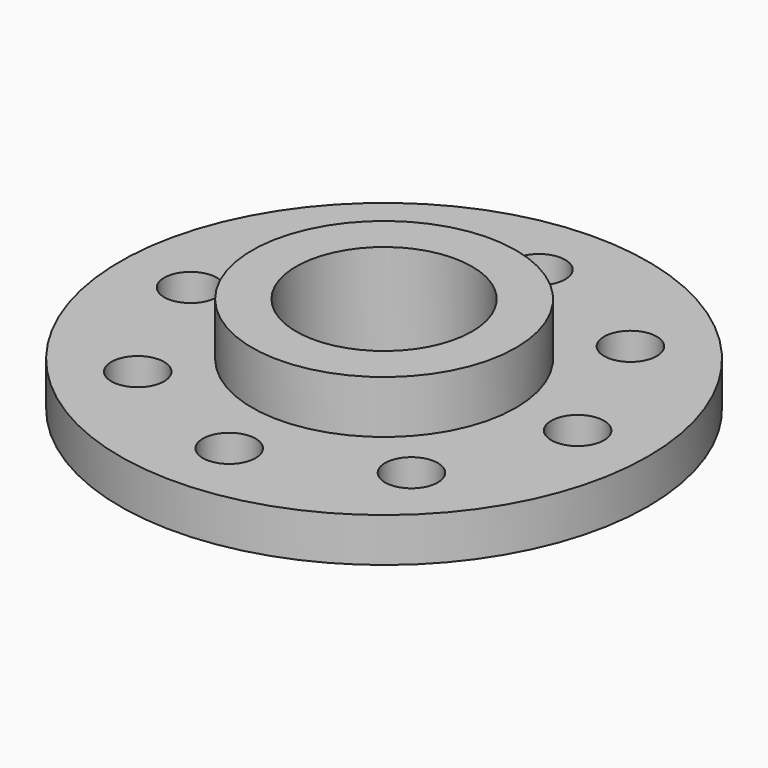
from build123d import *

# Parameters (mm, degrees)
CYLINDER003_R     = 3
CYLINDER003_DEPTH = 10
ARRAY_COUNT       = 8
CYLINDER002_R     = 10
CYLINDER002_DEPTH = 30
CYLINDER001_R     = 15
CYLINDER001_DEPTH = 12
CYLINDER_R        = 30
CYLINDER_DEPTH    = 5


with BuildPart() as array:
    # Cylinder003 → Cylinder003 (new body)
    with BuildSketch(Plane(origin=(22, 0, 0), x_dir=(1, 0, 0), z_dir=(0, 0, 1))):
        Circle(CYLINDER003_R)
    extrude(amount=CYLINDER003_DEPTH)

    # Array: Array ×8 about axis
    array_axis = Axis((0, 0, 0), (0, 0, 1))


with BuildPart() as array_1:
    add(array.part)
    for i in range(1, ARRAY_COUNT):
        add(array.part.rotate(array_axis, i * 360 / ARRAY_COUNT))


with BuildPart() as array_2:
    # Array placement: moved
    add(array_1.part.moved(Location((0, 0, -1))))


with BuildPart() as tubo_interior:
    # Cylinder002 → Cylinder002 (new body)
    with BuildSketch(Plane.XY.offset(-1)):
        Circle(CYLINDER002_R)
    extrude(amount=CYLINDER002_DEPTH)


with BuildPart() as tubo_exterior:
    # Cylinder001 → Cylinder001 (new body)
    with BuildSketch(Plane.XY.offset(-1)):
        Circle(CYLINDER001_R)
    extrude(amount=CYLINDER001_DEPTH)


with BuildPart() as cut001:
    # Cylinder → Cylinder (new body)
    with BuildSketch(Plane.XY):
        Circle(CYLINDER_R)
    extrude(amount=CYLINDER_DEPTH)

    # Fusion: union tubo_exterior
    add(tubo_exterior.part)

    # Cut: cut tubo_interior
    add(tubo_interior.part, mode=Mode.SUBTRACT)

    # Cut001: cut Array
    add(array_2.part, mode=Mode.SUBTRACT)


solid = cut001.part
